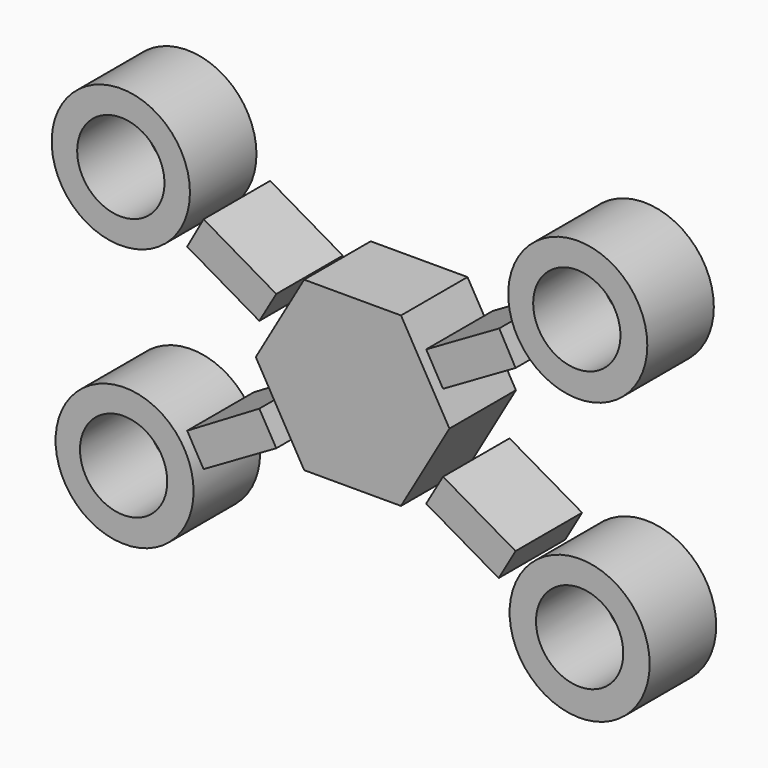
from build123d import *

# Parameters (mm, degrees)
F2_DEPTH = 25.4
F0_R     = 21.2470065786
F0_R_2   = 21.0806617066
F0_R_3   = 21.1179606742
F0_R_4   = 21.3927044232
F3_D     = 26.67
F3_2_D   = 26.67
F3_3_D   = 26.67
F3_4_D   = 26.67


with BuildPart() as f2:
    # F0 (on Front) → F2 (new body)
    with BuildSketch(Plane.XZ):
        Polygon((-28.4927692264, 10.0732017308), (-23.312266916, 18.9951807261), (-45.5095960839, 31.8839484647), (-50.5304058193, 22.8692447776), align=None)
    extrude(amount=F2_DEPTH)


with BuildPart() as f2b:
    # F0 (on Front) → F2, piece 2 (new body)
    with BuildSketch(Plane.XZ):
        Polygon((-14.788661092, -25.6147123873), (14.788661092, -25.6147123873), (29.5773221841, 0), (14.788661092, 25.6147123873), (-14.788661092, 25.6147123873), (-29.5773221841, 0), align=None)
    extrude(amount=F2_DEPTH)


with BuildPart() as f2c:
    # F0 (on Front) → F2, piece 3 (new body)
    with BuildSketch(Plane.XZ):
        Polygon((22.4776970185, 18.9951807261), (27.6293512434, 10.0732017308), (49.7903935611, 22.8692447776), (44.7993261531, 31.8839484647), align=None)
    extrude(amount=F2_DEPTH)


with BuildPart() as f2d:
    # F0 (on Front) → F2, piece 4 (new body)
    with BuildSketch(Plane.XZ):
        with Locations((68.7855780125, 42.0196428895)):
            Circle(F0_R)
    extrude(amount=F2_DEPTH)

    # F3 (through all)
    with Locations(Plane(origin=(0, 0, 0), x_dir=(1, 0, 0), z_dir=(0, 1, 0))):
        with Locations((-70.8002150059, -37.7025529742), (-69.9367970228, 42.3074476421), (68.4977695346, -42.0196428895), (69.3611875176, 43.1708656251)):
            Hole(F3_D / 2)


with BuildPart() as f2e:
    # F0 (on Front) → F2, piece 5 (new body)
    with BuildSketch(Plane.XZ):
        with Locations((-69.6489959955, -42.3074476421)):
            Circle(F0_R_2)
    extrude(amount=F2_DEPTH)

    # F3#2 (through all)
    with Locations(Plane(origin=(0, 0, 0), x_dir=(1, 0, 0), z_dir=(0, 1, 0))):
        with Locations((-70.8002150059, -37.7025529742), (-69.9367970228, 42.3074476421), (68.4977695346, -42.0196428895), (69.3611875176, 43.1708656251)):
            Hole(F3_2_D / 2)


with BuildPart() as f2f:
    # F0 (on Front) → F2, piece 6 (new body)
    with BuildSketch(Plane.XZ):
        with Locations((-70.8002150059, 37.7025529742)):
            Circle(F0_R_3)
    extrude(amount=F2_DEPTH)

    # F3#3 (through all)
    with Locations(Plane(origin=(0, 0, 0), x_dir=(1, 0, 0), z_dir=(0, 1, 0))):
        with Locations((-70.8002150059, -37.7025529742), (-69.9367970228, 42.3074476421), (68.4977695346, -42.0196428895), (69.3611875176, 43.1708656251)):
            Hole(F3_3_D / 2)


with BuildPart() as f2g:
    # F0 (on Front) → F2, piece 7 (new body)
    with BuildSketch(Plane.XZ):
        Polygon((-23.312266916, -22.4988109062), (-28.4927692264, -13.5268708691), (-50.5304058193, -26.6204326355), (-45.5095960839, -35.3158064014), align=None)
    extrude(amount=F2_DEPTH)


with BuildPart() as f2h:
    # F0 (on Front) → F2, piece 8 (new body)
    with BuildSketch(Plane.XZ):
        Polygon((27.6293512434, -13.5758840456), (22.4776970185, -22.4988109062), (44.6258576428, -35.3158064014), (49.7903935611, -26.3705677933), align=None)
    extrude(amount=F2_DEPTH)


with BuildPart() as f2i:
    # F0 (on Front) → F2, piece 9 (new body)
    with BuildSketch(Plane.XZ):
        with Locations((69.3611875176, -43.4586666524)):
            Circle(F0_R_4)
    extrude(amount=F2_DEPTH)

    # F3#4 (through all)
    with Locations(Plane(origin=(0, 0, 0), x_dir=(1, 0, 0), z_dir=(0, 1, 0))):
        with Locations((-70.8002150059, -37.7025529742), (-69.9367970228, 42.3074476421), (68.4977695346, -42.0196428895), (69.3611875176, 43.1708656251)):
            Hole(F3_4_D / 2)


solid = Compound([f2.part, f2b.part, f2c.part, f2d.part, f2e.part, f2f.part, f2g.part, f2h.part, f2i.part])
